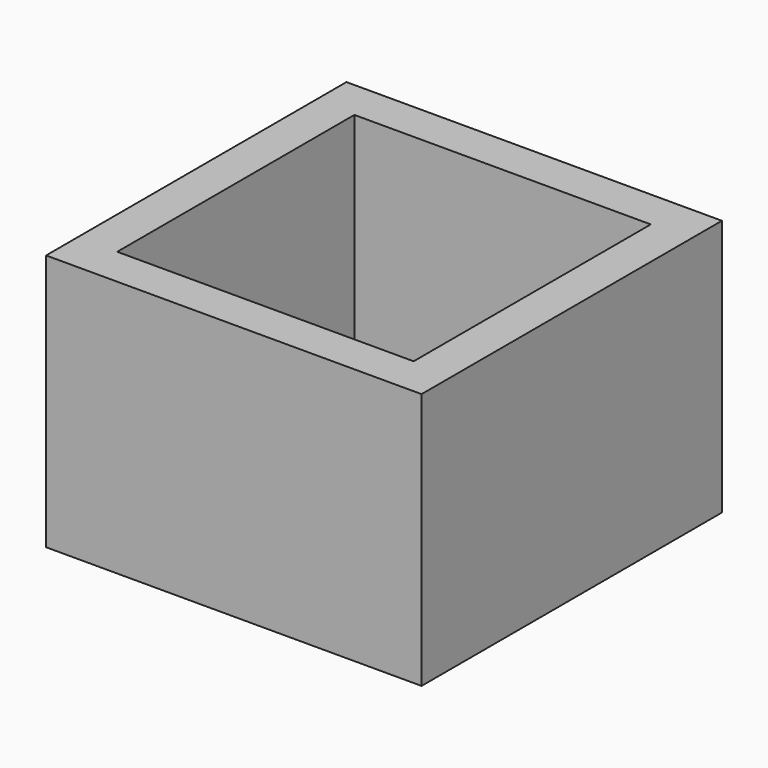
from build123d import *

# Parameters (mm, degrees)
F0_W     = 95
F0_H     = 95
F0_R     = 5
F1_DEPTH = 15
F2_W     = 95
F2_H     = 95
F2_W_2   = 75
F2_H_2   = 75
F3_DEPTH = 50


with BuildPart() as f1:
    # F0 (on Top) → F1 (new body)
    with BuildSketch(Plane.XY):
        with Locations((47.5, 47.5)):
            Rectangle(F0_W, F0_H)
        with Locations((25, 25)):
            Circle(F0_R, mode=Mode.SUBTRACT)
        with Locations((40, 25)):
            Circle(F0_R, mode=Mode.SUBTRACT)
        with Locations((25, 40)):
            Circle(F0_R, mode=Mode.SUBTRACT)
        with Locations((40, 40)):
            Circle(F0_R, mode=Mode.SUBTRACT)
        with Locations((55, 25)):
            Circle(F0_R, mode=Mode.SUBTRACT)
        with Locations((70, 25)):
            Circle(F0_R, mode=Mode.SUBTRACT)
        with Locations((55, 40)):
            Circle(F0_R, mode=Mode.SUBTRACT)
        with Locations((70, 40)):
            Circle(F0_R, mode=Mode.SUBTRACT)
        with Locations((25, 55)):
            Circle(F0_R, mode=Mode.SUBTRACT)
        with Locations((40, 55)):
            Circle(F0_R, mode=Mode.SUBTRACT)
        with Locations((25, 70)):
            Circle(F0_R, mode=Mode.SUBTRACT)
        with Locations((40, 70)):
            Circle(F0_R, mode=Mode.SUBTRACT)
        with Locations((55, 55)):
            Circle(F0_R, mode=Mode.SUBTRACT)
        with Locations((70, 55)):
            Circle(F0_R, mode=Mode.SUBTRACT)
        with Locations((55, 70)):
            Circle(F0_R, mode=Mode.SUBTRACT)
        with Locations((70, 70)):
            Circle(F0_R, mode=Mode.SUBTRACT)
    extrude(amount=F1_DEPTH)

    # F2 (on face) → F3 (join)
    with BuildSketch(Plane.XY.offset(15)):
        with Locations((47.5, 47.5)):
            Rectangle(F2_W, F2_H)
        with Locations((47.5, 47.5)):
            Rectangle(F2_W_2, F2_H_2, mode=Mode.SUBTRACT)
    extrude(amount=F3_DEPTH)


solid = f1.part
